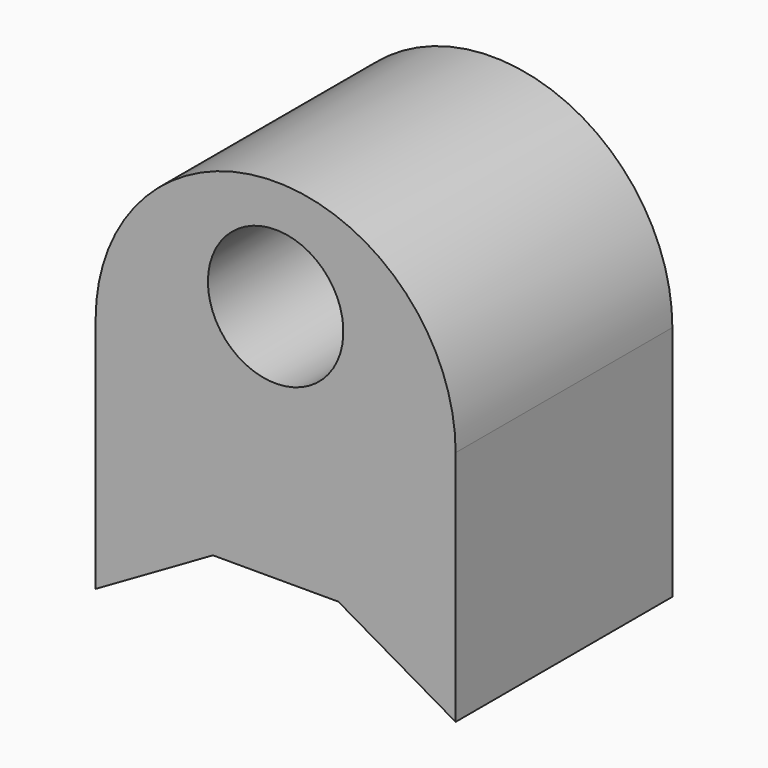
from build123d import *

# Parameters (mm, degrees)
F1_DEPTH = 25.4
F3_D     = 25.4
F3_DEPTH = 76.2


with BuildPart() as f1:
    # F0 (on Front) → F1 (new body, symmetric)
    with BuildSketch(Plane.XZ):
        with BuildLine():
            Line((11.758216, -9.525), (33.755261, -22.225))
            Line((33.755261, -22.225), (33.755261, 22.225))
            ThreePointArc((33.755261, 22.225), (0, 55.980261), (-33.755261, 22.225))
            Line((-33.755261, 22.225), (-33.755261, -22.225))
            Line((-33.755261, -22.225), (-11.758216, -9.525))
            Line((-11.758216, -9.525), (11.758216, -9.525))
        make_face()
    extrude(amount=F1_DEPTH, both=True)

    # F3
    with Locations(Plane.XZ.offset(25.4)):
        with Locations((0, 35.367405)):
            Hole(F3_D / 2, depth=F3_DEPTH)


solid = f1.part
